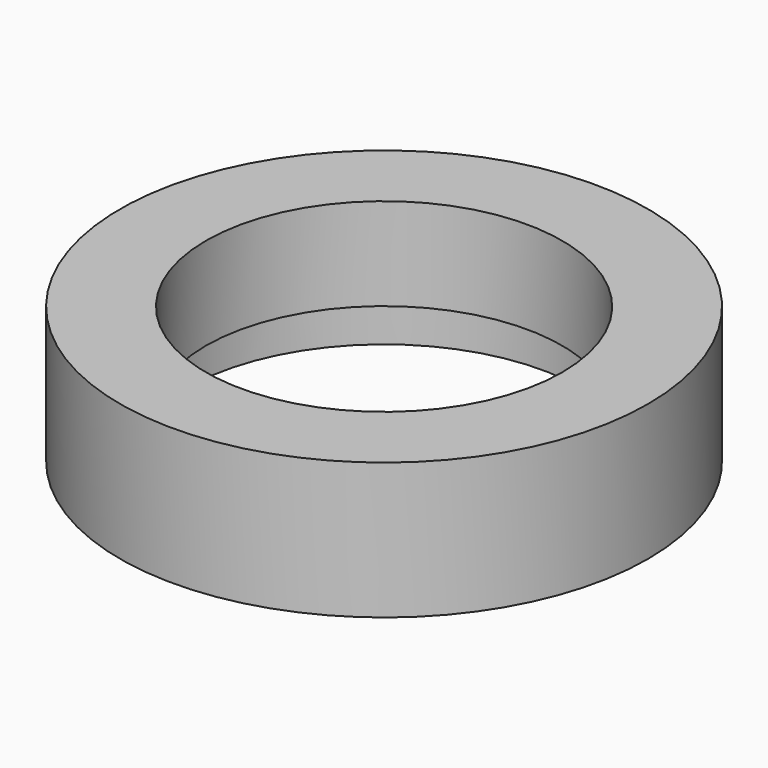
from build123d import *

# Parameters (mm, degrees)
SKETCH001_R     = 6
PAD_DEPTH       = 3.1
SKETCH_R        = 4.05
POCKET_DEPTH    = 3.101
SKETCH002_R     = 4.5
POCKET001_DEPTH = 1


with BuildPart() as part:
    # Sketch001 → Pad (new body)
    with BuildSketch(Plane.XY):
        Circle(SKETCH001_R)
    extrude(amount=PAD_DEPTH)

    # Sketch → Pocket (cut, through all)
    with BuildSketch(Plane.XY):
        Circle(SKETCH_R)
    extrude(amount=POCKET_DEPTH, mode=Mode.SUBTRACT)

    # Sketch002 → Pocket001 (cut)
    with BuildSketch(Plane.XY):
        Circle(SKETCH002_R)
    extrude(amount=POCKET001_DEPTH, mode=Mode.SUBTRACT)


solid = part.part
